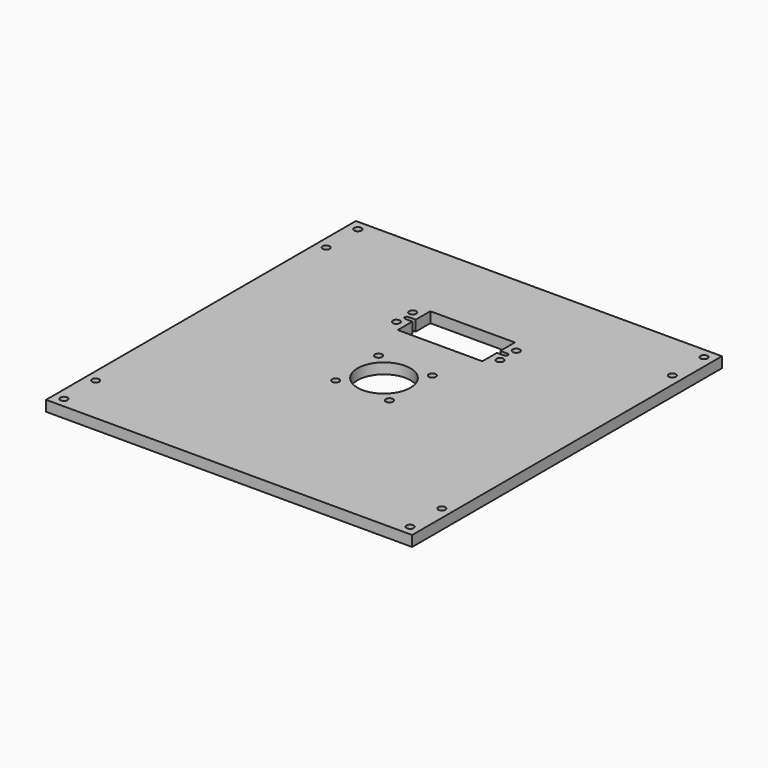
from build123d import *

# Parameters (mm, degrees)
F0_W     = 175.8696
F0_H     = 186.0296
F0_R     = 1.7272
F0_R_2   = 12.7
F1_DEPTH = 5.08


with BuildPart() as f1:
    # F0 (on Top) → F1 (new body)
    with BuildSketch(Plane.XY):
        Rectangle(F0_W, F0_H)
        with Locations((-83.1723, -88.2523)):
            Circle(F0_R, mode=Mode.SUBTRACT)
        with Locations((-83.1723, -69.2023)):
            Circle(F0_R, mode=Mode.SUBTRACT)
        with Locations((-12.909118, -12.909118)):
            Circle(F0_R, mode=Mode.SUBTRACT)
        with Locations((83.1723, -88.2523)):
            Circle(F0_R, mode=Mode.SUBTRACT)
        with Locations((83.1723, -69.2023)):
            Circle(F0_R, mode=Mode.SUBTRACT)
        with Locations((12.909118, -12.909118)):
            Circle(F0_R, mode=Mode.SUBTRACT)
        with Locations((-12.909118, 12.909118)):
            Circle(F0_R, mode=Mode.SUBTRACT)
        with Locations((-24.892, 38.548238)):
            Circle(F0_R, mode=Mode.SUBTRACT)
        with Locations((-83.1723, 69.2023)):
            Circle(F0_R, mode=Mode.SUBTRACT)
        with Locations((-83.1723, 88.2523)):
            Circle(F0_R, mode=Mode.SUBTRACT)
        with Locations((-24.892, 48.327238)):
            Circle(F0_R, mode=Mode.SUBTRACT)
        Circle(F0_R_2, mode=Mode.SUBTRACT)
        with Locations((12.909118, 12.909118)):
            Circle(F0_R, mode=Mode.SUBTRACT)
        with BuildLine():
            Line((-20.32, 44.453738), (-20.32, 53.216738))
            Line((-20.32, 53.216738), (20.32, 53.216738))
            Line((20.32, 53.216738), (20.32, 44.453738))
            Line((20.32, 44.453738), (23.749, 44.453738))
            ThreePointArc((23.749, 44.453738), (24.765, 43.437738), (23.749, 42.421738))
            Line((23.749, 42.421738), (20.32, 42.421738))
            Line((20.32, 42.421738), (20.32, 33.658738))
            Line((20.32, 33.658738), (-20.32, 33.658738))
            Line((-20.32, 33.658738), (-20.32, 42.421738))
            Line((-20.32, 42.421738), (-23.749, 42.421738))
            ThreePointArc((-23.749, 42.421738), (-24.765, 43.437738), (-23.749, 44.453738))
            Line((-23.749, 44.453738), (-20.32, 44.453738))
        make_face(mode=Mode.SUBTRACT)
        with Locations((24.892, 38.548238)):
            Circle(F0_R, mode=Mode.SUBTRACT)
        with Locations((24.892, 48.327238)):
            Circle(F0_R, mode=Mode.SUBTRACT)
        with Locations((83.1723, 69.2023)):
            Circle(F0_R, mode=Mode.SUBTRACT)
        with Locations((83.1723, 88.2523)):
            Circle(F0_R, mode=Mode.SUBTRACT)
    extrude(amount=F1_DEPTH)


solid = f1.part
